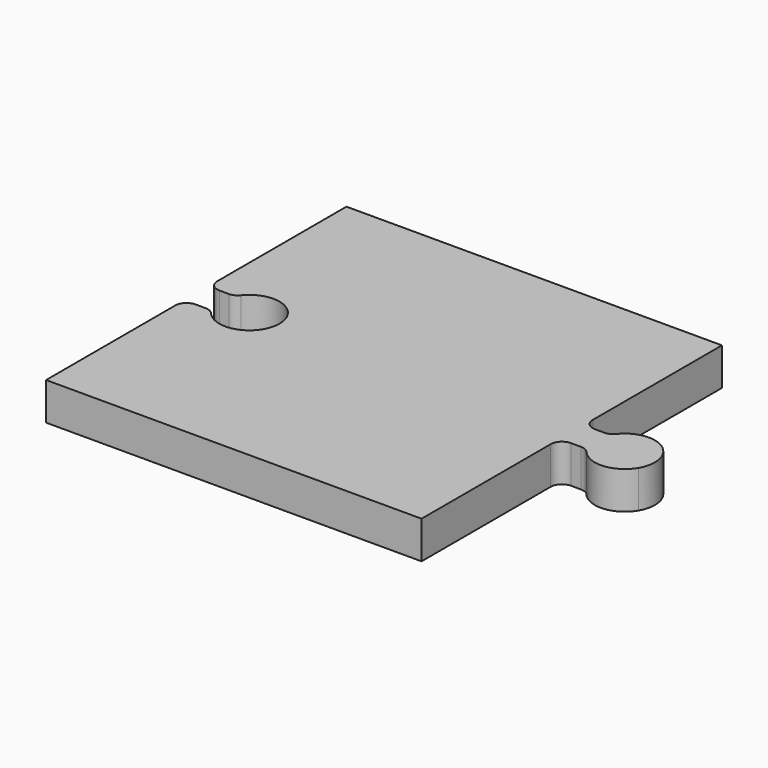
from build123d import *

# Parameters (mm, degrees)
F1_DEPTH = 5


with BuildPart() as f1:
    # F0 (on Top) → F1 (new body)
    with BuildSketch(Plane.XY):
        with BuildLine():
            Line((-27.200759, -24.611152), (22.799241, -24.611152))
            Line((22.799241, -24.611152), (22.799241, -3.111152))
            ThreePointArc((22.799241, -3.111152), (23.238581, -2.050492), (24.299241, -1.611152))
            Line((24.299241, -1.611152), (25.632635, -1.611152))
            ThreePointArc((25.632635, -1.611152), (26.262976, -1.750024), (26.776601, -2.140924))
            ThreePointArc((26.776601, -2.140924), (30.153067, -3.540353), (33.257437, -1.611152))
            ThreePointArc((33.257437, -1.611152), (32.113029, 3.728861), (26.707591, 2.949985))
            ThreePointArc((26.707591, 2.949985), (26.186479, 2.536388), (25.537747, 2.388848))
            Line((25.537747, 2.388848), (24.299241, 2.388848))
            ThreePointArc((24.299241, 2.388848), (23.238581, 2.828188), (22.799241, 3.888848))
            Line((22.799241, 3.888848), (22.799241, 25.388848))
            Line((22.799241, 25.388848), (-27.200759, 25.388848))
            Line((-27.200759, 25.388848), (-27.200759, 3.888848))
            ThreePointArc((-27.200759, 3.888848), (-26.761419, 2.828188), (-25.700759, 2.388848))
            Line((-25.700759, 2.388848), (-24.457344, 2.388848))
            ThreePointArc((-24.457344, 2.388848), (-23.808613, 2.536388), (-23.2875, 2.949985))
            ThreePointArc((-23.2875, 2.949985), (-16.168282, 0.500567), (-23.21849, -2.140924))
            ThreePointArc((-23.21849, -2.140924), (-23.732116, -1.750024), (-24.362456, -1.611152))
            Line((-24.362456, -1.611152), (-25.700759, -1.611152))
            ThreePointArc((-25.700759, -1.611152), (-26.761419, -2.050492), (-27.200759, -3.111152))
            Line((-27.200759, -3.111152), (-27.200759, -24.611152))
        make_face()
    extrude(amount=F1_DEPTH)


solid = f1.part
